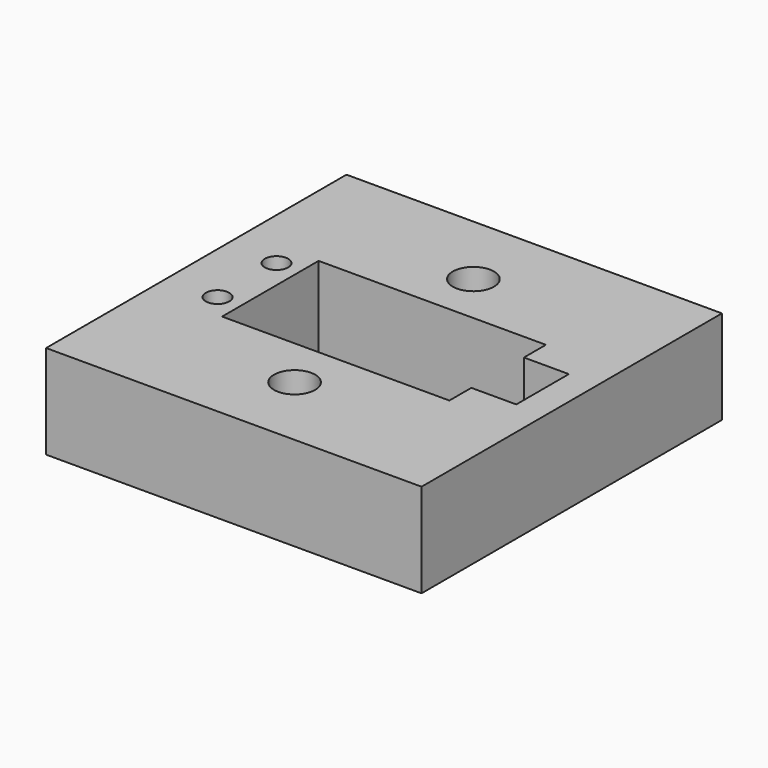
from build123d import *

# Parameters (mm, degrees)
F0_W     = 40
F0_H     = 40
F0_R     = 1.25
F0_R_2   = 2.195
F1_DEPTH = 10


with BuildPart() as f1:
    # F0 (on Top) → F1 (new body)
    with BuildSketch(Plane.XY):
        with Locations((20, 20)):
            Rectangle(F0_W, F0_H)
        with Locations((5.4065, 16.074)):
            Circle(F0_R, mode=Mode.SUBTRACT)
        with Locations((20, 8.095)):
            Circle(F0_R_2, mode=Mode.SUBTRACT)
        with Locations((5.4065, 23.926)):
            Circle(F0_R, mode=Mode.SUBTRACT)
        Polygon((7.8935, 13.574), (7.8935, 26.426), (32.1065, 26.426), (32.1065, 23.5), (36.8935, 23.5), (36.8935, 16.5), (32.1065, 16.5), (32.1065, 13.574), align=None, mode=Mode.SUBTRACT)
        with Locations((20, 31.905)):
            Circle(F0_R_2, mode=Mode.SUBTRACT)
    extrude(amount=F1_DEPTH)


solid = f1.part
